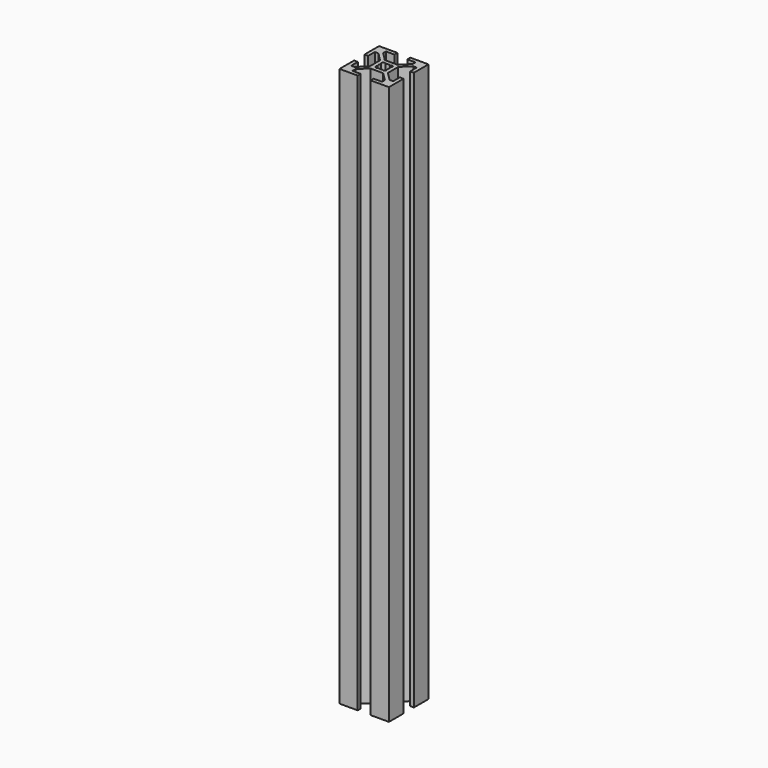
from build123d import *

# Parameters (mm, degrees)
F1_DEPTH = 226.274


with BuildPart() as f1:
    # F0 (on Top) → F1 (new body)
    with BuildSketch(Plane.XY):
        Polygon((10, 2.63), (10, 10), (2.63, 10), (2.63, 8.5), (5.995, 8.5), (5.995, 7.05566), (2.59934, 3.66), (-2.59934, 3.66), (-5.995, 7.05566), (-5.995, 8.5), (-2.63, 8.5), (-2.63, 10), (-10, 10), (-10, 2.63), (-8.5, 2.63), (-8.5, 5.995), (-7.05566, 5.995), (-3.66, 2.59934), (-3.66, -2.59934), (-7.05566, -5.995), (-8.5, -5.995), (-8.5, -2.63), (-10, -2.63), (-10, -10), (-2.63, -10), (-2.63, -8.5), (-5.995, -8.5), (-5.995, -7.05566), (-2.59934, -3.66), (2.59934, -3.66), (5.995, -7.05566), (5.995, -8.5), (2.63, -8.5), (2.63, -10), (10, -10), (10, -2.63), (8.5, -2.63), (8.5, -5.995), (7.05566, -5.995), (3.66, -2.59934), (3.66, 2.59934), (7.05566, 5.995), (8.5, 5.995), (8.5, 2.63), align=None)
        with BuildLine():
            ThreePointArc((1.886053, 0.912048), (2.042095, 0.467838), (2.095, 0))
            ThreePointArc((2.095, 0), (2.042095, -0.467838), (1.886053, -0.912048))
            ThreePointArc((1.886053, -0.912048), (2.102098, -1.161042), (2.179889, -1.481389))
            ThreePointArc((2.179889, -1.481389), (1.693777, -2.146816), (0.912048, -1.886053))
            ThreePointArc((0.912048, -1.886053), (0, -2.095), (-0.912048, -1.886053))
            ThreePointArc((-0.912048, -1.886053), (-1.975303, -1.975303), (-1.886053, -0.912048))
            ThreePointArc((-1.886053, -0.912048), (-2.095, 0), (-1.886053, 0.912048))
            ThreePointArc((-1.886053, 0.912048), (-1.975303, 1.975303), (-0.912048, 1.886053))
            ThreePointArc((-0.912048, 1.886053), (0, 2.095), (0.912048, 1.886053))
            ThreePointArc((0.912048, 1.886053), (1.693777, 2.146816), (2.179889, 1.481389))
            ThreePointArc((2.179889, 1.481389), (2.102098, 1.161042), (1.886053, 0.912048))
        make_face(mode=Mode.SUBTRACT)
    extrude(amount=F1_DEPTH)


solid = f1.part
